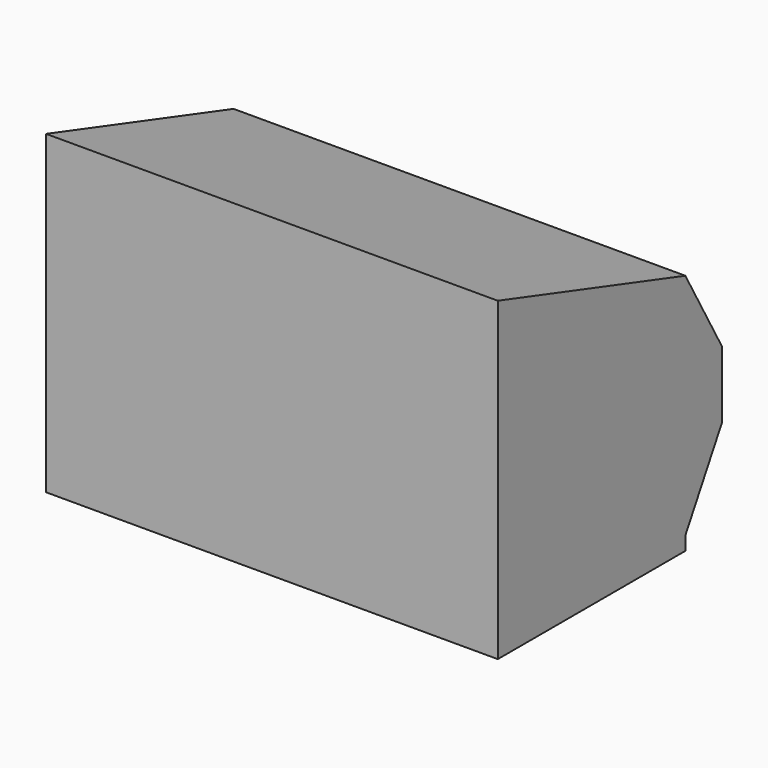
from build123d import *

# Parameters (mm, degrees)
F1_DEPTH = 1678
F3_DEPTH = 1678


with BuildPart() as f1:
    # F0 (on Right) → F1 (new body)
    with BuildSketch(Plane.YZ):
        Polygon((0, 25), (0, 0), (0, -25), (597.705221, -25), (820, 618.75), (0, 875), (170, 575), (170, 325), align=None)
    extrude(amount=F1_DEPTH)


with BuildPart() as f3:
    # F2 (on face) → F3 (new body)
    with BuildSketch(Plane.YZ.offset(839)):
        Polygon((170, 575), (0, 875), (-870.606259, 1147.064456), (-870.606259, -25), (0, -25), (0, 0), (0, 25), (170, 325), align=None)
    extrude(amount=-F3_DEPTH)


solid = f3.part
